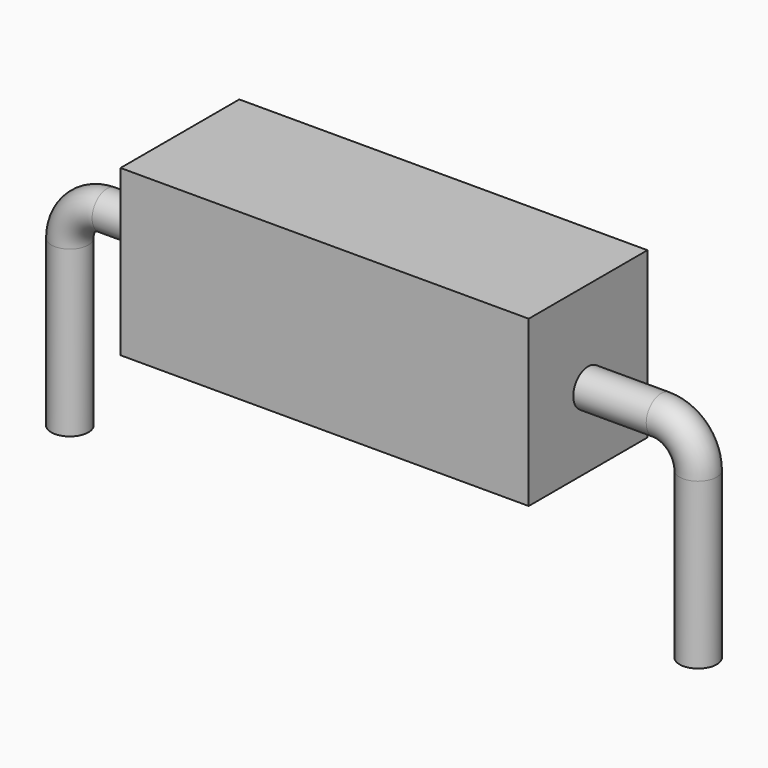
from build123d import *

# Parameters (mm, degrees)
SKETCH_R    = 0.45
SKETCH002_W = 9.9
SKETCH002_H = 4
PAD_DEPTH   = 1.8


with BuildPart() as sweep_body:
    # Sweep: sweep along a path in Sketch001
    with BuildLine(Plane.XZ) as sweep_path:
        Line((0, -3), (0, 1))
        ThreePointArc((0, 1), (0.263605, 1.636397), (0.900002, 1.9))
        Line((0.900002, 1.9), (14.34, 1.9))
        ThreePointArc((14.34, 1.9), (14.976396, 1.636396), (15.24, 1))
        Line((15.24, 1), (15.24, -3))
    # Sketch → Sweep (sweep)
    with BuildSketch(Plane.XY.offset(-2)):
        Circle(SKETCH_R)
    sweep(path=sweep_path.line)


with BuildPart() as pad:
    # Sketch002 → Pad (new body, symmetric)
    with BuildSketch(Plane.XZ):
        with Locations((7.62, 2.1)):
            Rectangle(SKETCH002_W, SKETCH002_H)
    extrude(amount=PAD_DEPTH, both=True)


solid = Compound([sweep_body.part, pad.part])
